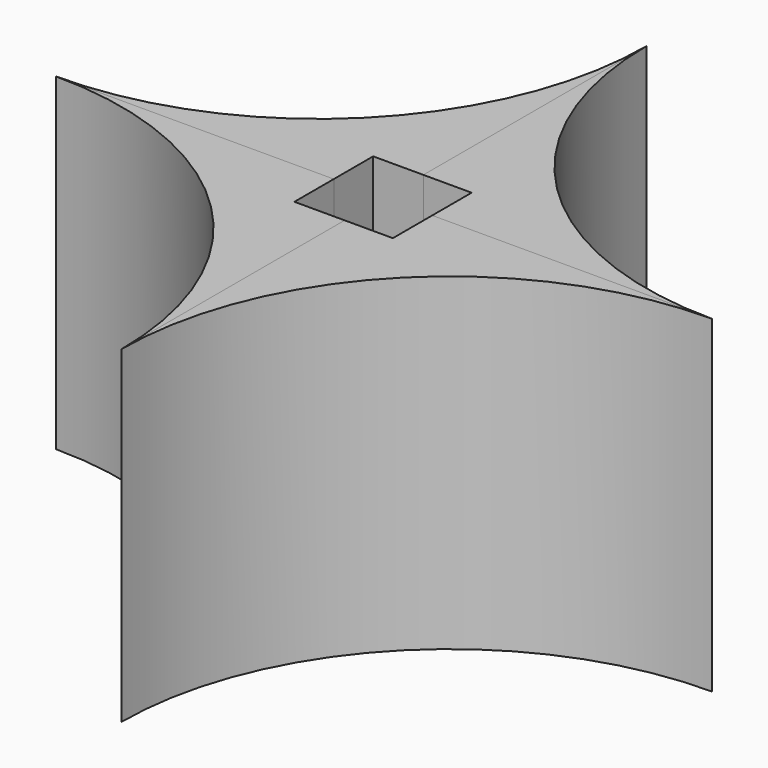
from build123d import *

# Parameters (mm, degrees)
F2_DEPTH = 50.8
F3_COUNT = 4
F1_W     = 15.24
F1_H     = 15.24
F4_DEPTH = 50.801


with BuildPart() as f2:
    # F0 (on Top) → F2 (new body)
    with BuildSketch(Plane.XY):
        with BuildLine():
            ThreePointArc((0.154402, 50.8), (-14.724573, 14.878976), (-50.645598, 0))
            Line((-50.645598, 0), (0.154402, 0))
            Line((0.154402, 0), (0.154402, 50.8))
        make_face()
    extrude(amount=F2_DEPTH)


with BuildPart() as f3_1:
    # F3: instance of F2
    add(f2.part.rotate(Axis((0.154402, 0, 25.4), (0, 0, 1)), 1 * 360 / F3_COUNT))


with BuildPart() as f3_2:
    # F3: instance of F2
    add(f2.part.rotate(Axis((0.154402, 0, 25.4), (0, 0, 1)), 2 * 360 / F3_COUNT))


with BuildPart() as f3_3:
    # F3: instance of F2
    add(f2.part.rotate(Axis((0.154402, 0, 25.4), (0, 0, 1)), 3 * 360 / F3_COUNT))


with BuildPart() as f4_tool:
    # F1 (on Top) → F4 (new body, through all)
    with BuildSketch(Plane.XY):
        Rectangle(F1_W, F1_H)
    extrude(amount=F4_DEPTH)


with BuildPart() as f2_1:
    add(f2.part)

    # F4: cut by f4_tool
    add(f4_tool.part, mode=Mode.SUBTRACT)


with BuildPart() as f3_1_1:
    add(f3_1.part)

    # F4: cut by f4_tool
    add(f4_tool.part, mode=Mode.SUBTRACT)


with BuildPart() as f3_2_1:
    add(f3_2.part)

    # F4: cut by f4_tool
    add(f4_tool.part, mode=Mode.SUBTRACT)


with BuildPart() as f3_3_1:
    add(f3_3.part)

    # F4: cut by f4_tool
    add(f4_tool.part, mode=Mode.SUBTRACT)


solid = Compound([f2_1.part, f3_1_1.part, f3_2_1.part, f3_3_1.part])
